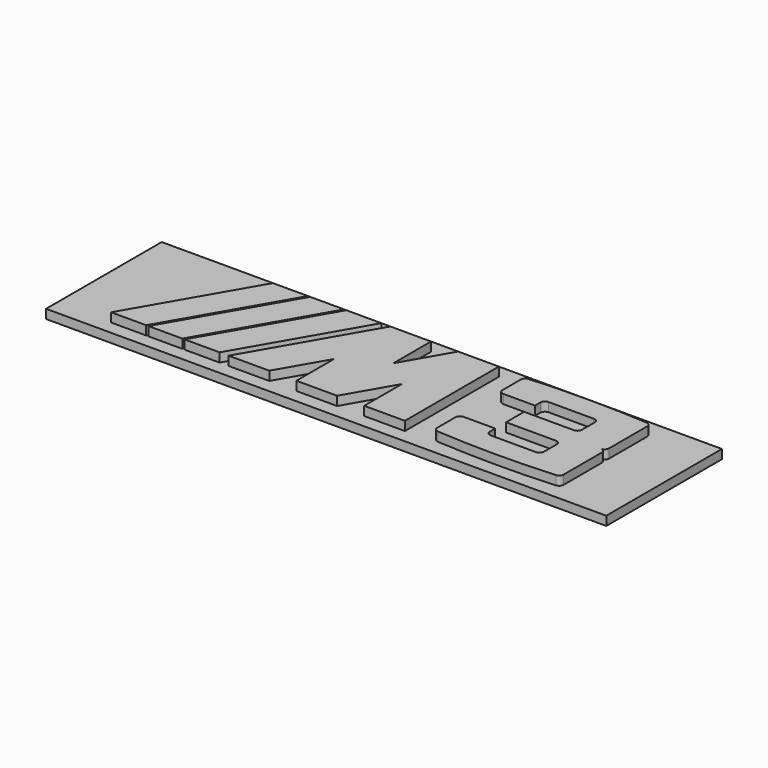
from build123d import *

# Parameters (mm, degrees)
F0_W     = 98.425
F0_H     = 25.4
F1_DEPTH = 1.5875
F3_DEPTH = 1.5875
F6_DEPTH = 1.5875
F5_ANGLE = -90


with BuildPart() as f1:
    # F0 (on Front) → F1 (new body)
    with BuildSketch(Plane.XZ):
        with Locations((49.2125, 12.7)):
            Rectangle(F0_W, F0_H)
    extrude(amount=F1_DEPTH)

    # F2 (on face) → F3 (join)
    with BuildSketch(Plane.XZ.offset(1.5875)):
        Polygon((21.4400661804, 23.01875), (9.525, 2.38125), (28.575, 2.38125), (40.4900661804, 23.01875), align=None)
        Polygon((42.0775661804, 23.01875), (30.1625, 2.38125), (37.30625, 2.38125), (42.0775661804, 10.6454120434), (42.0775661804, 2.38125), (49.2213161804, 2.38125), (53.9926323608, 10.6454120434), (53.9926323608, 2.38125), (61.1363823608, 2.38125), (61.1363823608, 23.01875), (53.9926323608, 23.01875), (49.2213161804, 14.7545879566), (49.2213161804, 23.01875), align=None)
        with BuildLine():
            ThreePointArc((66.6397834492, 22.6730891893), (66.1129825156, 22.4233597915), (65.8988823608, 21.8811005183))
            Line((65.8988823608, 21.8811005183), (65.8988823608, 17.859375))
            ThreePointArc((65.8988823608, 17.859375), (66.1313663532, 17.2981089924), (66.6926323608, 17.065625))
            Line((66.6926323608, 17.065625), (72.2488823608, 17.065625))
            Line((72.2488823608, 17.065625), (72.2488823608, 18.25625))
            ThreePointArc((72.2488823608, 18.25625), (72.4813663532, 18.8175160076), (73.0426323608, 19.05))
            Line((73.0426323608, 19.05), (80.9801323608, 19.05))
            ThreePointArc((80.9801323608, 19.05), (81.5413983684, 18.8175160076), (81.7738823608, 18.25625))
            Line((81.7738823608, 18.25625), (81.7738823608, 15.478125))
            ThreePointArc((81.7738823608, 15.478125), (81.5413983684, 14.9168589924), (80.9801323608, 14.684375))
            Line((80.9801323608, 14.684375), (72.2488823608, 14.684375))
            Line((72.2488823608, 14.684375), (72.2488823608, 10.715625))
            Line((72.2488823608, 10.715625), (80.9801323608, 10.715625))
            ThreePointArc((80.9801323608, 10.715625), (81.5413983684, 10.4831410076), (81.7738823608, 9.921875))
            Line((81.7738823608, 9.921875), (81.7738823608, 7.14375))
            ThreePointArc((81.7738823608, 7.14375), (81.5413983684, 6.5824839924), (80.9801323608, 6.35))
            Line((80.9801323608, 6.35), (73.0426323608, 6.35))
            ThreePointArc((73.0426323608, 6.35), (72.4813663532, 6.5824839924), (72.2488823608, 7.14375))
            Line((72.2488823608, 7.14375), (72.2488823608, 8.334375))
            Line((72.2488823608, 8.334375), (66.6926323608, 8.334375))
            ThreePointArc((66.6926323608, 8.334375), (66.1313663532, 8.1018910076), (65.8988823608, 7.540625))
            Line((65.8988823608, 7.540625), (65.8988823608, 3.5188994817))
            ThreePointArc((65.8988823608, 3.5188994817), (66.1129825156, 2.9766402085), (66.6397834492, 2.7269108107))
            ThreePointArc((66.6397834492, 2.7269108107), (77.0113823608, 2.38125), (87.3829812725, 2.7269108107))
            ThreePointArc((87.3829812725, 2.7269108107), (87.909782206, 2.9766402085), (88.1238823608, 3.5188994817))
            Line((88.1238823608, 3.5188994817), (88.1238823608, 11.90625))
            ThreePointArc((88.1238823608, 11.90625), (87.8913983684, 12.4675160076), (87.3301323608, 12.7))
            ThreePointArc((87.3301323608, 12.7), (87.8913983684, 12.9324839924), (88.1238823608, 13.49375))
            Line((88.1238823608, 13.49375), (88.1238823608, 16.8671875))
            Line((88.1238823608, 16.8671875), (88.1238823608, 21.8811005183))
            ThreePointArc((88.1238823608, 21.8811005183), (87.909782206, 22.4233597915), (87.3829812725, 22.6730891893))
            ThreePointArc((87.3829812725, 22.6730891893), (77.0113823608, 23.01875), (66.6397834492, 22.6730891893))
        make_face()
    extrude(amount=F3_DEPTH)

    # F4 (on face) → F6 (cut, through all)
    with BuildSketch(Plane.XZ.offset(3.175)):
        Polygon((22.4234375, 2.38125), (34.3385036804, 23.01875), (33.9416286804, 23.01875), (22.0265625, 2.38125), align=None)
        Polygon((16.0734375, 2.38125), (27.9885036804, 23.01875), (27.5916286804, 23.01875), (15.6765625, 2.38125), align=None)
    extrude(amount=-F6_DEPTH, mode=Mode.SUBTRACT)


with BuildPart() as f1_1:
    # F5: moved
    add(f1.part.rotate(Axis((49.2125, 0, 0), (1, 0, 0)), F5_ANGLE))


solid = f1_1.part
